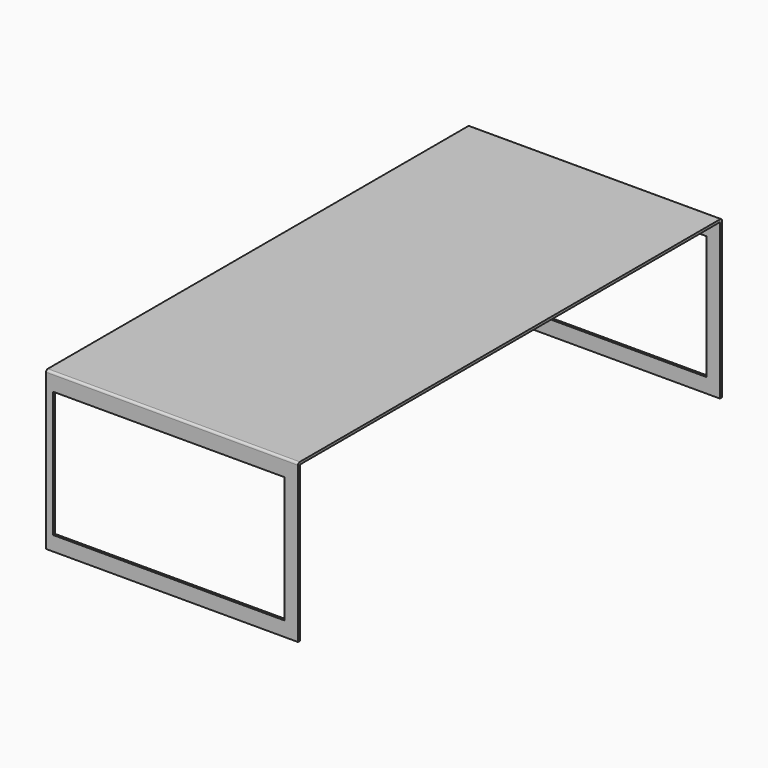
from build123d import *

# Parameters (mm, degrees)
F1_DEPTH = 206.502
F2_W     = 189.611
F2_H     = 103.378
F3_DEPTH = 25.4
F4_W     = 189.611
F4_H     = 101.6
F5_DEPTH = 25.4


with BuildPart() as f1:
    # F0 (on Right) → F1 (new body)
    with BuildSketch(Plane.YZ):
        with BuildLine():
            Line((432.308, 0), (1.778, 0))
            ThreePointArc((1.778, 0), (0.520764, -0.520764), (0, -1.778))
            Line((0, -1.778), (0, -129.286))
            Line((0, -129.286), (2.032, -129.286))
            Line((2.032, -129.286), (2.032, -2.032))
            Line((2.032, -2.032), (432.054, -2.032))
            Line((432.054, -2.032), (432.054, -129.286))
            Line((432.054, -129.286), (434.086, -129.286))
            Line((434.086, -129.286), (434.086, -1.778))
            ThreePointArc((434.086, -1.778), (433.565236, -0.520764), (432.308, 0))
        make_face()
    extrude(amount=F1_DEPTH)

    # F2 (on face) → F3 (cut)
    with BuildSketch(Plane.XZ):
        with Locations((100.6729, -65.659)):
            Rectangle(F2_W, F2_H)
    extrude(amount=-F3_DEPTH, mode=Mode.SUBTRACT)

    # F4 (on face) → F5 (cut)
    with BuildSketch(Plane(origin=(0, 434.086, 0), x_dir=(-1, 0, 0), z_dir=(0, 1, 0))):
        with Locations((-100.6729, -66.548)):
            Rectangle(F4_W, F4_H)
    extrude(amount=-F5_DEPTH, mode=Mode.SUBTRACT)


solid = f1.part
